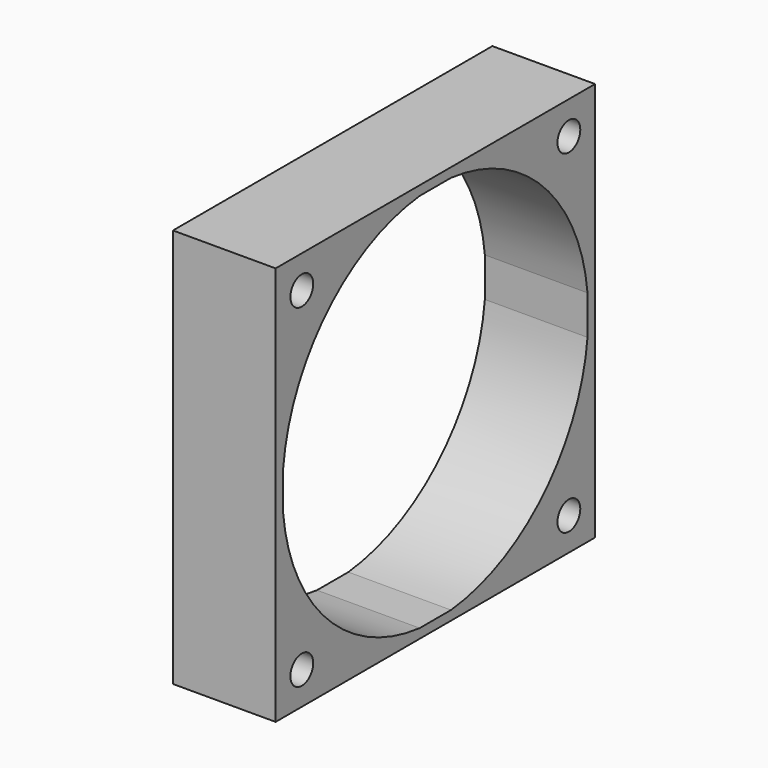
from build123d import *

# Parameters (mm, degrees)
F0_W     = 59.5
F0_H     = 59.5
F1_DEPTH = 15.3
F2_R     = 2.125
F3_DEPTH = 25


with BuildPart() as f1:
    # F0 (on Right) → F1 (new body)
    with BuildSketch(Plane.YZ):
        Rectangle(F0_W, F0_H)
        with BuildLine():
            ThreePointArc((-2.920188, -28.35), (-20.152543, -20.152543), (-28.35, -2.920188))
            Line((-28.35, -2.920188), (-28.35, 2.920188))
            ThreePointArc((-28.35, 2.920188), (-20.152543, 20.152543), (-2.920188, 28.35))
            Line((-2.920188, 28.35), (2.920188, 28.35))
            ThreePointArc((2.920188, 28.35), (20.152543, 20.152543), (28.35, 2.920188))
            Line((28.35, 2.920188), (28.35, -2.920188))
            ThreePointArc((28.35, -2.920188), (20.152543, -20.152543), (2.920188, -28.35))
            Line((2.920188, -28.35), (-2.920188, -28.35))
        make_face(mode=Mode.SUBTRACT)
    extrude(amount=F1_DEPTH)

    # F2 (on face) → F3 (cut)
    with BuildSketch(Plane.YZ.offset(15.3)):
        with Locations((-24.875, 24.875)):
            Circle(F2_R)
        with Locations((24.875, 24.875)):
            Circle(F2_R)
        with Locations((24.875, -24.875)):
            Circle(F2_R)
        with Locations((-24.875, -24.875)):
            Circle(F2_R)
    extrude(amount=-F3_DEPTH, mode=Mode.SUBTRACT)


solid = f1.part
